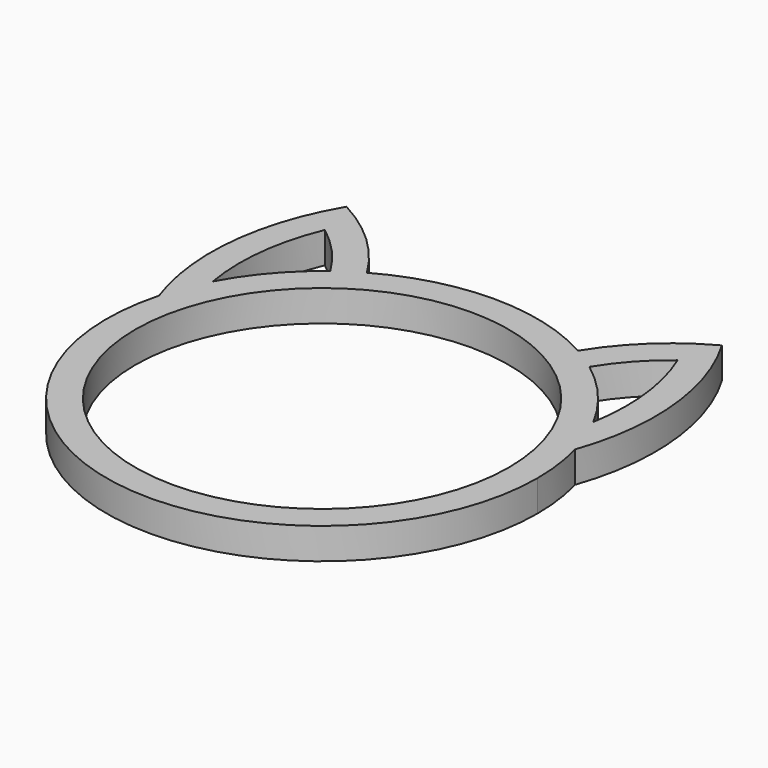
from build123d import *

# Parameters (mm, degrees)
F0_R     = 8.45
F1_DEPTH = 1.4097
F2_SCALE = 1.077


with BuildPart() as f1:
    # F0 (on Top) → F1 (new body)
    with BuildSketch(Plane.XY):
        with BuildLine():
            ThreePointArc((-9.4120850146, 2.5446327196), (-1.2834857046, -9.6651520653), (9.75, 0))
            ThreePointArc((9.75, 0), (9.6651520653, 1.2834857046), (9.4120850146, 2.5446327196))
            ThreePointArc((9.4120850146, 2.5446327196), (9.0664331541, 3.5864034718), (8.605879101, 4.5827224332))
            ThreePointArc((8.605879101, 4.5827224332), (7.4094447589, 6.3373991798), (5.8614611023, 7.791391002))
            ThreePointArc((5.8614611023, 7.791391002), (5.3287734744, 8.164966213), (4.7723567489, 8.5021827234))
            ThreePointArc((4.7723567489, 8.5021827234), (0, 9.75), (-4.7723567489, 8.5021827234))
            ThreePointArc((-4.7723567489, 8.5021827234), (-5.3287734744, 8.164966213), (-5.8614611023, 7.791391002))
            ThreePointArc((-5.8614611023, 7.791391002), (-7.4094447589, 6.3373991798), (-8.605879101, 4.5827224332))
            ThreePointArc((-8.605879101, 4.5827224332), (-9.0664331541, 3.5864034718), (-9.4120850146, 2.5446327196))
        make_face()
        Circle(F0_R, mode=Mode.SUBTRACT)
        with BuildLine():
            ThreePointArc((8.605879101, 4.5827224332), (9.0664331541, 3.5864034718), (9.4120850146, 2.5446327196))
            ThreePointArc((9.4120850146, 2.5446327196), (9.999754223, 7.3726847415), (8.4918571085, 11.9967184477))
            ThreePointArc((8.4918571085, 11.9967184477), (6.3993427589, 10.4971992084), (4.7723567489, 8.5021827234))
            ThreePointArc((4.7723567489, 8.5021827234), (5.3287734744, 8.164966213), (5.8614611023, 7.791391002))
            ThreePointArc((5.8614611023, 7.791391002), (6.8094710668, 9.0606335647), (7.9777872006, 10.1305573879))
            ThreePointArc((7.9777872006, 10.1305573879), (8.6895585627, 7.4016679461), (8.605879101, 4.5827224332))
        make_face()
        with BuildLine():
            ThreePointArc((-8.4918571085, 11.9967184477), (-9.999754223, 7.3726847415), (-9.4120850146, 2.5446327196))
            ThreePointArc((-9.4120850146, 2.5446327196), (-9.0664331541, 3.5864034718), (-8.605879101, 4.5827224332))
            ThreePointArc((-8.605879101, 4.5827224332), (-8.6895585627, 7.4016679461), (-7.9777872006, 10.1305573879))
            ThreePointArc((-7.9777872006, 10.1305573879), (-6.8094710668, 9.0606335647), (-5.8614611023, 7.791391002))
            ThreePointArc((-5.8614611023, 7.791391002), (-5.3287734744, 8.164966213), (-4.7723567489, 8.5021827234))
            ThreePointArc((-4.7723567489, 8.5021827234), (-6.3993427589, 10.4971992084), (-8.4918571085, 11.9967184477))
        make_face()
    extrude(amount=F1_DEPTH)


with BuildPart() as f1_1:
    # F2: moved
    add(f1.part.scale(F2_SCALE))


solid = f1_1.part
